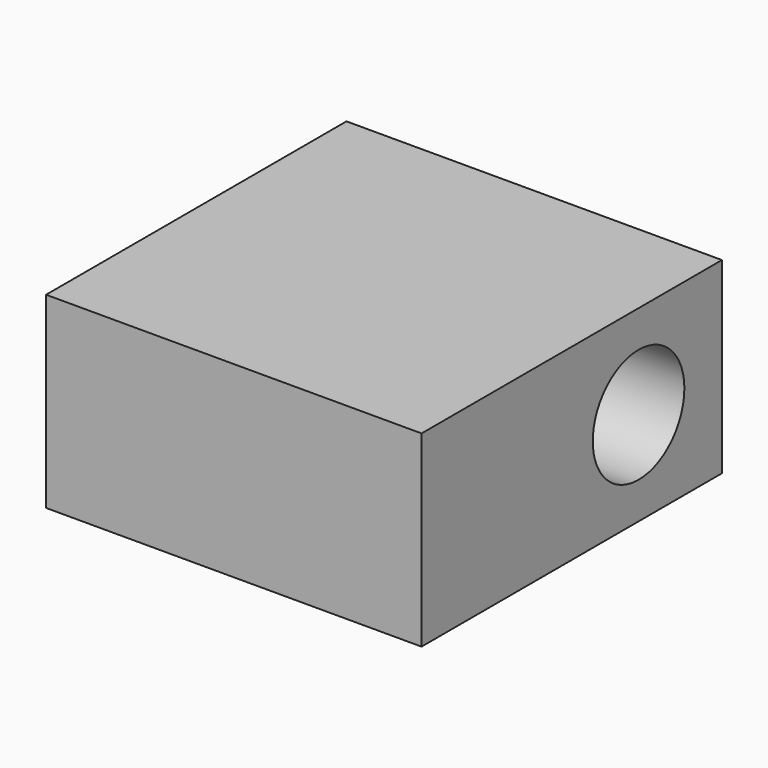
from build123d import *

# Parameters (mm, degrees)
F0_W     = 20
F0_H     = 20
F1_DEPTH = 5
F2_R     = 3.05
F3_DEPTH = 20.001


with BuildPart() as f1:
    # F0 (on Top) → F1 (new body, symmetric)
    with BuildSketch(Plane.XY):
        Rectangle(F0_W, F0_H)
    extrude(amount=F1_DEPTH, both=True)

    # F2 (on face) → F3 (cut, through all)
    with BuildSketch(Plane.YZ.offset(10)):
        with Locations((4.45, 0)):
            Circle(F2_R)
    extrude(amount=-F3_DEPTH, mode=Mode.SUBTRACT)


solid = f1.part
